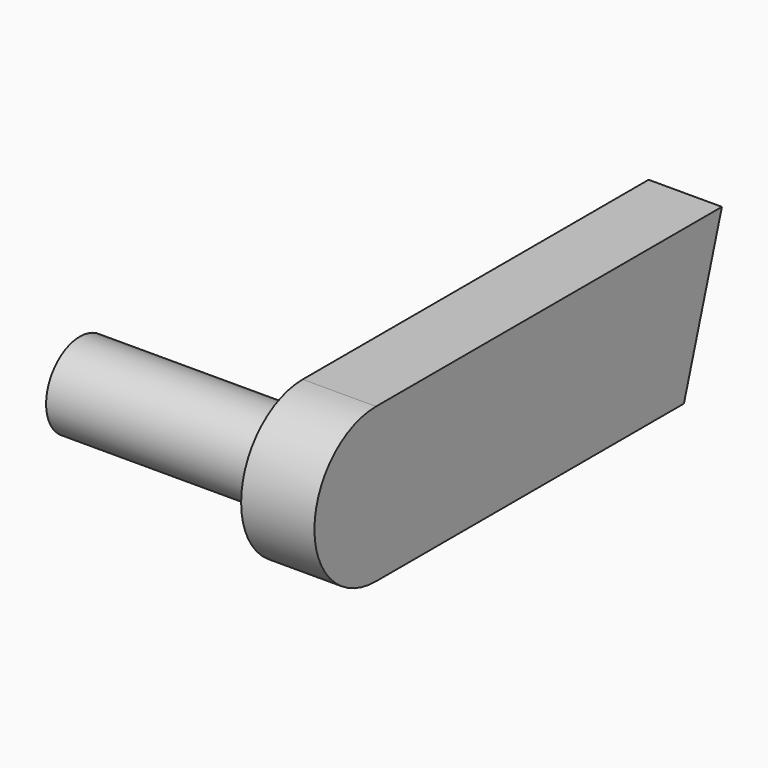
from build123d import *

# Parameters (mm, degrees)
F1_DEPTH = 2.5
F2_R     = 1.44
F3_DEPTH = 7.6


with BuildPart() as f1:
    # F0 (on Right) → F1 (new body)
    with BuildSketch(Plane.YZ):
        with BuildLine():
            ThreePointArc((0, -2.625), (1.856155, -1.856155), (2.625, 0))
            ThreePointArc((2.625, 0), (1.856155, 1.856155), (0, 2.625))
            ThreePointArc((0, 2.625), (-2.625, 0), (0, -2.625))
        make_face()
        with BuildLine():
            ThreePointArc((0, 2.625), (1.856155, 1.856155), (2.625, 0))
            ThreePointArc((2.625, 0), (1.856155, -1.856155), (0, -2.625))
            Line((0, -2.625), (13.125, -2.625))
            Line((13.125, -2.625), (14.745, 2.625))
            Line((14.745, 2.625), (0, 2.625))
        make_face()
    extrude(amount=F1_DEPTH)

    # F2 (on face) → F3 (join)
    with BuildSketch(Plane(origin=(0, 0, 0), x_dir=(0, -1, 0), z_dir=(-1, 0, 0))):
        Circle(F2_R)
    extrude(amount=F3_DEPTH)


solid = f1.part
